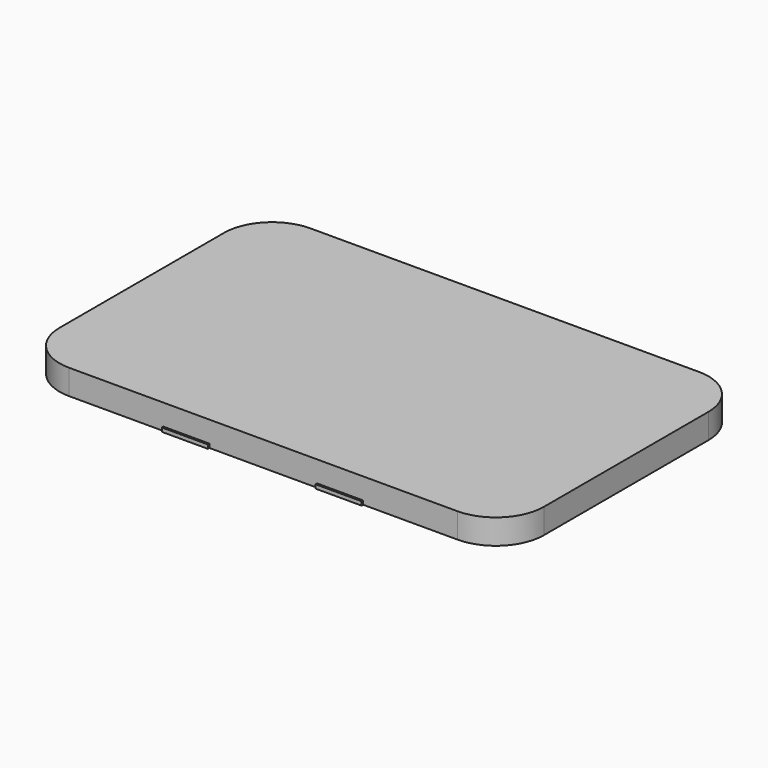
from build123d import *

# Parameters (mm, degrees)
PAD_DEPTH    = 1
PAD001_DEPTH = 6.5
SKETCH001_W  = 12
SKETCH001_H  = 1
PAD002_DEPTH = 0.5


with BuildPart() as part:
    # Sketch → Pad (new body)
    with BuildSketch(Plane.XY):
        with BuildLine():
            Line((-50.5, 39.25), (50.5, 39.25))
            ThreePointArc((63, 26.75), (59.338835, 35.588835), (50.5, 39.25))
            Line((63, 26.75), (63, -26.75))
            ThreePointArc((50.5, -39.25), (59.338835, -35.588835), (63, -26.75))
            Line((50.5, -39.25), (-50.5, -39.25))
            ThreePointArc((-63, -26.75), (-59.338835, -35.588835), (-50.5, -39.25))
            Line((-63, -26.75), (-63, 26.75))
            ThreePointArc((-50.5, 39.25), (-59.338835, 35.588835), (-63, 26.75))
        make_face()
    extrude(amount=PAD_DEPTH)

    # Sketch → Pad001 (join)
    with BuildSketch(Plane.XY):
        with BuildLine():
            Line((-50.5, 39.25), (50.5, 39.25))
            ThreePointArc((63, 26.75), (59.338835, 35.588835), (50.5, 39.25))
            Line((63, 26.75), (63, -26.75))
            ThreePointArc((50.5, -39.25), (59.338835, -35.588835), (63, -26.75))
            Line((50.5, -39.25), (-50.5, -39.25))
            ThreePointArc((-63, -26.75), (-59.338835, -35.588835), (-50.5, -39.25))
            Line((-63, -26.75), (-63, 26.75))
            ThreePointArc((-50.5, 39.25), (-59.338835, 35.588835), (-63, 26.75))
        make_face()
    extrude(amount=PAD001_DEPTH)

    # Sketch001 (on Face15 of Pad001) → Pad002 (join)
    with BuildSketch(Plane(origin=(0, 39.25, 0), x_dir=(-1, 0, 0), z_dir=(0, 1, 0))):
        with Locations((-20, 0.5)):
            Rectangle(SKETCH001_W, SKETCH001_H)
        with Locations((20, 0.5)):
            Rectangle(SKETCH001_W, SKETCH001_H)
    pad002 = extrude(amount=PAD002_DEPTH)

    # Mirrored: Pad002 across XZ
    add(pad002.mirror(Plane.XZ))


solid = part.part
